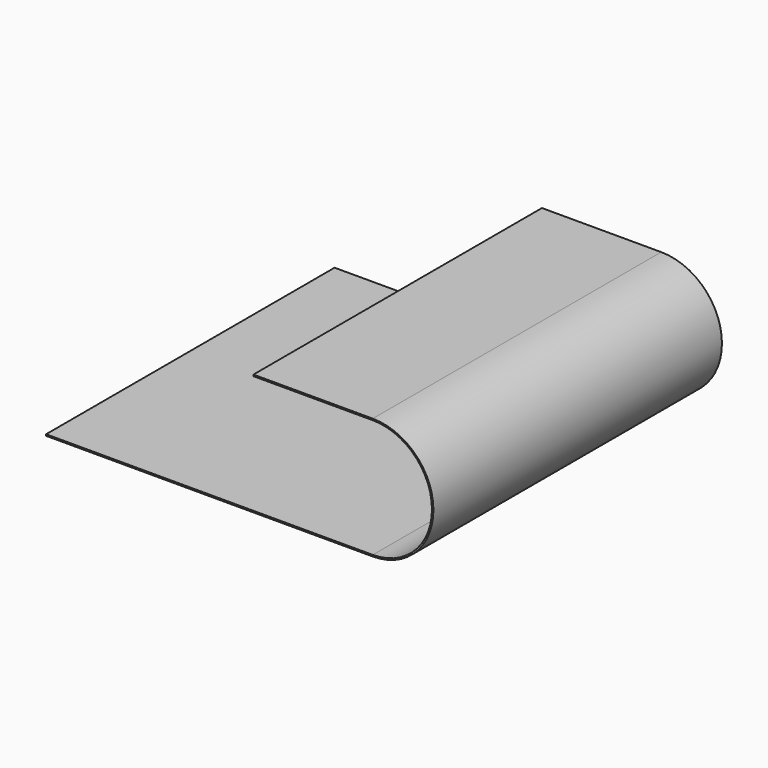
from build123d import *

# Parameters (mm, degrees)
F1_DEPTH  = 250
F1_FACE_W = 250
F1_FACE_H = 1
F2_DEPTH  = 25


with BuildPart() as f1:
    # F0 (on Front) → F1 (new body)
    with BuildSketch(Plane.XZ):
        with BuildLine():
            Line((150.622934, 0), (-75.805686, 0))
            Line((-75.805686, 0), (-75.805686, -1))
            Line((-75.805686, -1), (150.622934, -1))
            ThreePointArc((150.622934, -1), (192.698204, 41.07527), (150.622934, 83.15054))
            Line((150.622934, 83.15054), (92.919543, 83.15054))
            Line((92.919543, 83.15054), (92.919543, 82.15054))
            Line((92.919543, 82.15054), (150.622934, 82.15054))
            ThreePointArc((150.622934, 82.15054), (191.698204, 41.07527), (150.622934, 0))
        make_face()
    extrude(amount=F1_DEPTH)

    # F1_face (on face) → F2 (join)
    with BuildSketch(Plane(origin=(92.919543, -125, 82.65054), x_dir=(0, -1, 0), z_dir=(-1, 0, 0))):
        Rectangle(F1_FACE_W, F1_FACE_H)
    extrude(amount=F2_DEPTH)


solid = f1.part
